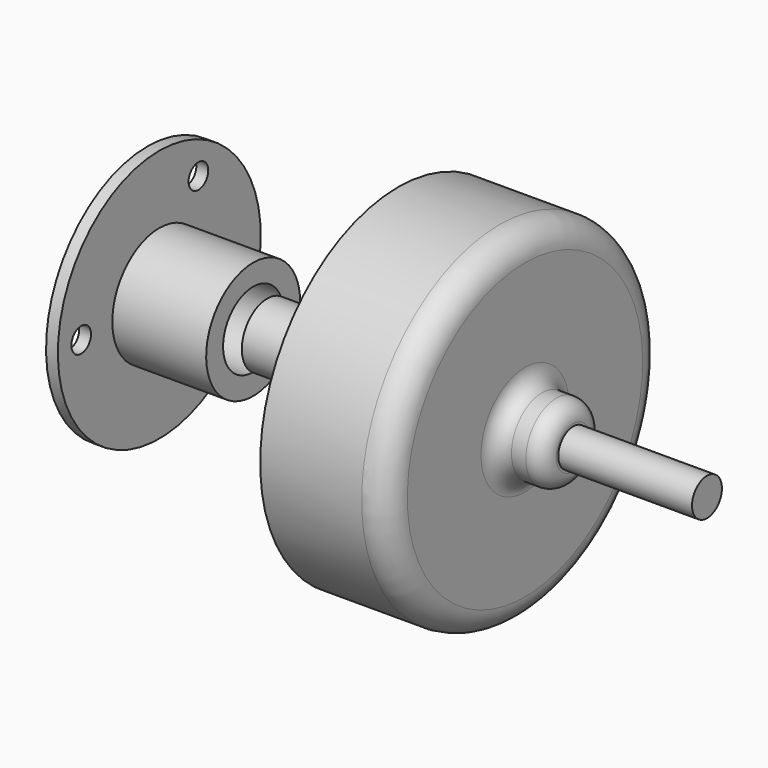
from build123d import *

# Parameters (mm, degrees)
F0_W     = 15.822236
F0_H     = 2.21133
F2_W     = 11.1
F2_H     = 6.95
F4_R     = 4.45
F5_DEPTH = 25
F6_R     = 1.45
F7_DEPTH = 2


with BuildPart() as f1:
    # F0 (on Front) → F1 (revolve)
    with BuildSketch(Plane.XZ):
        with BuildLine():
            Line((8.073684, 20.4), (-3.925488, 20.4))
            Line((-3.925488, 20.4), (-3.925488, 3.750257))
            Line((-3.925488, 3.750257), (-3.925488, 0.157568))
            Line((-3.925488, 0.157568), (11.073684, 0))
            Line((11.073684, 0), (16.774512, 0))
            Line((16.774512, 0), (16.774512, 2.21133))
            Line((16.774512, 2.21133), (16.774512, 2.5))
            ThreePointArc((16.774512, 2.5), (16.188725, 3.914214), (14.774512, 4.5))
            Line((14.774512, 4.5), (13.073684, 4.5))
            ThreePointArc((13.073684, 4.5), (11.659471, 5.085786), (11.073684, 6.5))
            Line((11.073684, 6.5), (11.073684, 17.4))
            ThreePointArc((11.073684, 17.4), (10.195005, 19.52132), (8.073684, 20.4))
        make_face()
        Polygon((-3.925488, 0.157568), (-3.925488, 3.750257), (-19.418975, 3.750257), (-19.418975, 0), (-3.925488, 0), align=None)
        with Locations((24.68563, 1.105665)):
            Rectangle(F0_W, F0_H)
    revolve(axis=Axis((-11.672232, 0, 0), (-1, 0, 0)))


with BuildPart() as f3:
    # F2 (on Front) → F3 (revolve)
    with BuildSketch(Plane.XZ):
        with Locations((-26.627103, 3.475)):
            Rectangle(F2_W, F2_H)
        Polygon((-32.177103, 15), (-33.577103, 15), (-33.577103, 0), (-32.177103, 0), (-32.177103, 6.95), align=None)
    revolve(axis=Axis((-26.627103, 0, 0), (1, 0, 0)))

    # F4 (on face) → F5 (cut)
    with BuildSketch(Plane.YZ.offset(-21.077103)):
        Circle(F4_R)
    extrude(amount=-F5_DEPTH, mode=Mode.SUBTRACT)

    # F6 (on face) → F7 (cut)
    with BuildSketch(Plane(origin=(-33.577103, 0, 0), x_dir=(0, -1, 0), z_dir=(-1, 0, 0))):
        with Locations((-5.775, 10.002593)):
            Circle(F6_R)
        with Locations((11.55, 0)):
            Circle(F6_R)
        with Locations((-5.775, -10.002593)):
            Circle(F6_R)
    extrude(amount=-F7_DEPTH, mode=Mode.SUBTRACT)


solid = Compound([f1.part, f3.part])
